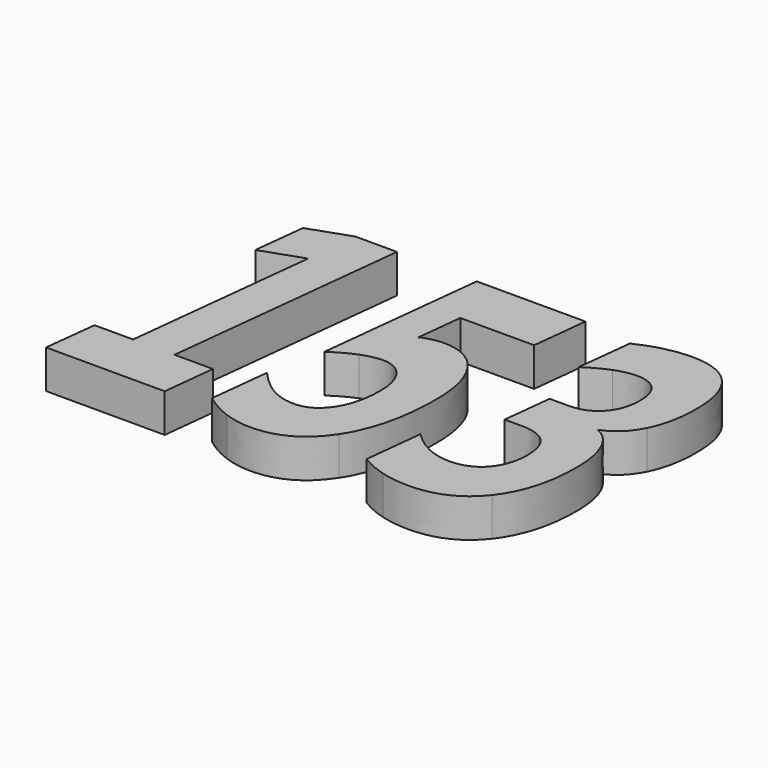
from build123d import *

# Parameters (mm, degrees)
EXTRUDE_PATH819_DEPTH = 10
EXTRUDE_PATH821_DEPTH = 10
EXTRUDE_PATH823_DEPTH = 10


with BuildPart() as obj1:
    # path819 → Extrude_path819 (new body)
    with BuildSketch(Plane(origin=(20.229341, -42.338896, 0), x_dir=(0, -1, 0), z_dir=(0, 0, -1))):
        with BuildLine():
            add(Edge.make_bspline(
                [(24.878189, 14.612545), (24.878189, 4.575645)],
                knots=[0, 0, 13.292356, 13.292356], degree=1))
            add(Edge.make_bspline(
                [(24.878189, 4.575645), (-25.085292, -0.944649)],
                knots=[0, 0, 38.428656, 38.428656], degree=1))
            add(Edge.make_bspline(
                [(-25.085292, -0.944649), (-21.357448, 9.771217)],
                knots=[0, 0, 14.46801, 14.46801], degree=1))
            add(Edge.make_bspline(
                [(-21.357448, 9.771217), (-34.922662, 8.265682)],
                knots=[0, 0, 10.435187, 10.435187], degree=1))
            add(Edge.make_bspline(
                [(-34.922662, 8.265682), (-38.650507, -2.391144)],
                knots=[0, 0, 14.391322, 14.391322], degree=1))
            add(Edge.make_bspline(
                [(-38.650507, -2.391144), (-38.650507, -13.195571)],
                knots=[0, 0, 14.30883, 14.30883], degree=1))
            add(Edge.make_bspline(
                [(-38.650507, -13.195571), (24.878189, -6.199262)],
                knots=[0, 0, 48.85641, 48.85641], degree=1))
            add(Edge.make_bspline(
                [(24.878189, -6.199262), (24.878189, -16.177121)],
                knots=[0, 0, 13.214165, 13.214165], degree=1))
            add(Edge.make_bspline(
                [(24.878189, -16.177121), (38.650507, -14.671586)],
                knots=[0, 0, 10.588729, 10.588729], degree=1))
            add(Edge.make_bspline(
                [(38.650507, -14.671586), (38.650507, 16.177121)],
                knots=[0, 0, 40.854446, 40.854446], degree=1))
            add(Edge.make_bspline(
                [(38.650507, 16.177121), (24.878189, 14.612545)],
                knots=[0, 0, 10.60373, 10.60373], degree=1))
        make_face()
    extrude(amount=-EXTRUDE_PATH819_DEPTH)


with BuildPart() as obj1_1:
    # Extrude_path819 placement: moved
    add(obj1.part.moved(Location((0, 0, -20))))


with BuildPart() as obj2:
    # path821 → Extrude_path821 (new body)
    with BuildSketch(Plane(origin=(63.358493, -43.089643, 0), x_dir=(0, -1, 0), z_dir=(0, 0, -1))):
        with BuildLine():
            add(Edge.make_bspline(
                [(-39.401253, 9.180814), (-39.401253, -19.070113)],
                knots=[0, 0, 37.414079, 37.414079], degree=1))
            add(Edge.make_bspline(
                [(-39.401253, -19.070113), (-24.748751, -17.446492)],
                knots=[0, 0, 11.27094, 11.27094], degree=1))
            add(Edge.make_bspline(
                [(-24.748751, -17.446492), (-24.748751, 1.741704)],
                knots=[0, 0, 25.411863, 25.411863], degree=1))
            add(Edge.make_bspline(
                [(-24.748751, 1.741704), (-12.78858, 3.070115)],
                knots=[0, 0, 9.200746, 9.200746], degree=1))
            add(Edge.make_bspline(
                [(-12.78858, 3.070115), (-13.409888, 1.77122), (-13.720542, 0.383769)],
                knots=[0, 0, 0, 1, 1, 1], degree=2))
            add(Edge.make_bspline(
                [(-13.720542, 0.383769), (-14.082971, -1.033207), (-14.082971, -2.450183)],
                knots=[0, 0, 0, 1, 1, 1], degree=2))
            add(Edge.make_bspline(
                [(-14.082971, -2.450183), (-14.082971, -9.210328), (-8.64653, -13.018451)],
                knots=[0, 0, 0, 1, 1, 1], degree=2))
            add(Edge.make_bspline(
                [(-8.64653, -13.018451), (-3.261864, -16.826565), (6.316627, -16.826565)],
                knots=[0, 0, 0, 1, 1, 1], degree=2))
            add(Edge.make_bspline(
                [(6.316627, -16.826565), (21.538661, -16.826565), (30.495845, -10.95203)],
                knots=[0, 0, 0, 1, 1, 1], degree=2))
            add(Edge.make_bspline(
                [(30.495845, -10.95203), (39.401253, -5.077489), (39.401253, 4.98893)],
                knots=[0, 0, 0, 1, 1, 1], degree=2))
            add(Edge.make_bspline(
                [(39.401253, 4.98893), (39.401253, 8.678969), (38.106862, 12.162364)],
                knots=[0, 0, 0, 1, 1, 1], degree=2))
            add(Edge.make_bspline(
                [(38.106862, 12.162364), (36.864247, 15.645758), (34.275466, 19.070113)],
                knots=[0, 0, 0, 1, 1, 1], degree=2))
            add(Edge.make_bspline(
                [(34.275466, 19.070113), (18.587451, 17.328415)],
                knots=[0, 0, 12.068316, 12.068316], degree=1))
            add(Edge.make_bspline(
                [(18.587451, 17.328415), (22.315295, 14.051662), (24.075667, 10.981552)],
                knots=[0, 0, 0, 1, 1, 1], degree=2))
            add(Edge.make_bspline(
                [(24.075667, 10.981552), (25.836039, 7.881922), (25.836039, 4.693729)],
                knots=[0, 0, 0, 1, 1, 1], degree=2))
            add(Edge.make_bspline(
                [(25.836039, 4.693729), (25.836039, 0.029527), (21.590437, -2.774901)],
                knots=[0, 0, 0, 1, 1, 1], degree=2))
            add(Edge.make_bspline(
                [(21.590437, -2.774901), (17.29306, -5.579336), (10.355126, -5.579336)],
                knots=[0, 0, 0, 1, 1, 1], degree=2))
            add(Edge.make_bspline(
                [(10.355126, -5.579336), (5.384665, -5.579336), (2.48523, -3.453869)],
                knots=[0, 0, 0, 1, 1, 1], degree=2))
            add(Edge.make_bspline(
                [(2.48523, -3.453869), (-0.46598, -1.328409), (-0.46598, 2.332107)],
                knots=[0, 0, 0, 1, 1, 1], degree=2))
            add(Edge.make_bspline(
                [(-0.46598, 2.332107), (-0.46598, 4.811809), (0.673083, 7.704801)],
                knots=[0, 0, 0, 1, 1, 1], degree=2))
            add(Edge.make_bspline(
                [(0.673083, 7.704801), (1.760372, 10.568268), (4.090275, 13.992622)],
                knots=[0, 0, 0, 1, 1, 1], degree=2))
            add(Edge.make_bspline(
                [(4.090275, 13.992622), (-39.401253, 9.180814)],
                knots=[0, 0, 33.452509, 33.452509], degree=1))
        make_face()
    extrude(amount=-EXTRUDE_PATH821_DEPTH)


with BuildPart() as obj2_1:
    # Extrude_path821 placement: moved
    add(obj2.part.moved(Location((0, 0, -20))))


with BuildPart() as obj3:
    # path823 → Extrude_path823 (new body)
    with BuildSketch(Plane(origin=(104.790227, -42.390671, 0), x_dir=(0, -1, 0), z_dir=(0, 0, -1))):
        with BuildLine():
            add(Edge.make_bspline(
                [(-3.08065, -9.284129), (-1.734484, -12.61992), (2.355791, -14.479702)],
                knots=[0, 0, 0, 1, 1, 1], degree=2))
            add(Edge.make_bspline(
                [(2.355791, -14.479702), (6.446066, -16.339476), (12.400263, -16.339476)],
                knots=[0, 0, 0, 1, 1, 1], degree=2))
            add(Edge.make_bspline(
                [(12.400263, -16.339476), (25.240619, -16.339476), (32.69631, -10.523984)],
                knots=[0, 0, 0, 1, 1, 1], degree=2))
            add(Edge.make_bspline(
                [(32.69631, -10.523984), (40.100224, -4.738008), (40.100224, 5.416976)],
                knots=[0, 0, 0, 1, 1, 1], degree=2))
            add(Edge.make_bspline(
                [(40.100224, 5.416976), (40.100224, 9.254613), (39.116487, 12.738008)],
                knots=[0, 0, 0, 1, 1, 1], degree=2))
            add(Edge.make_bspline(
                [(39.116487, 12.738008), (38.184526, 16.191887), (36.268828, 19.261992)],
                knots=[0, 0, 0, 1, 1, 1], degree=2))
            add(Edge.make_bspline(
                [(36.268828, 19.261992), (20.891467, 17.579339)],
                knots=[0, 0, 11.823167, 11.823167], degree=1))
            add(Edge.make_bspline(
                [(20.891467, 17.579339), (23.583799, 14.952032), (25.085292, 11.852403)],
                knots=[0, 0, 0, 1, 1, 1], degree=2))
            add(Edge.make_bspline(
                [(25.085292, 11.852403), (26.535011, 8.752766), (26.535011, 5.653137)],
                knots=[0, 0, 0, 1, 1, 1], degree=2))
            add(Edge.make_bspline(
                [(26.535011, 5.653137), (26.535011, 0.664209), (23.273145, -2.228782)],
                knots=[0, 0, 0, 1, 1, 1], degree=2))
            add(Edge.make_bspline(
                [(23.273145, -2.228782), (19.959505, -5.15129), (14.419512, -5.15129)],
                knots=[0, 0, 0, 1, 1, 1], degree=2))
            add(Edge.make_bspline(
                [(14.419512, -5.15129), (9.811482, -5.15129), (7.533355, -2.937266)],
                knots=[0, 0, 0, 1, 1, 1], degree=2))
            add(Edge.make_bspline(
                [(7.533355, -2.937266), (5.203451, -0.723242), (5.203451, 3.734322)],
                knots=[0, 0, 0, 1, 1, 1], degree=2))
            add(Edge.make_bspline(
                [(5.203451, 3.734322), (5.203451, 8.250927)],
                knots=[0, 0, 5.98156, 5.98156], degree=1))
            add(Edge.make_bspline(
                [(5.203451, 8.250927), (-7.636905, 6.804428)],
                knots=[0, 0, 9.883039, 9.883039], degree=1))
            add(Edge.make_bspline(
                [(-7.636905, 6.804428), (-7.636905, 2.022145)],
                knots=[0, 0, 6.33341, 6.33341], degree=1))
            add(Edge.make_bspline(
                [(-7.636905, 2.022145), (-7.636905, -2.612541), (-10.588116, -5.298888)],
                knots=[0, 0, 0, 1, 1, 1], degree=2))
            add(Edge.make_bspline(
                [(-10.588116, -5.298888), (-13.539327, -8.014758), (-18.561563, -8.014758)],
                knots=[0, 0, 0, 1, 1, 1], degree=2))
            add(Edge.make_bspline(
                [(-18.561563, -8.014758), (-22.49651, -8.014758), (-24.567536, -6.12546)],
                knots=[0, 0, 0, 1, 1, 1], degree=2))
            add(Edge.make_bspline(
                [(-24.567536, -6.12546), (-26.638561, -4.265678), (-26.638561, -0.693726)],
                knots=[0, 0, 0, 1, 1, 1], degree=2))
            add(Edge.make_bspline(
                [(-26.638561, -0.693726), (-26.638561, 1.8155), (-25.499497, 4.767532)],
                knots=[0, 0, 0, 1, 1, 1], degree=2))
            add(Edge.make_bspline(
                [(-25.499497, 4.767532), (-24.360433, 7.719557), (-22.185857, 10.90775)],
                knots=[0, 0, 0, 1, 1, 1], degree=2))
            add(Edge.make_bspline(
                [(-22.185857, 10.90775), (-36.786583, 9.284137)],
                knots=[0, 0, 11.232564, 11.232564], degree=1))
            add(Edge.make_bspline(
                [(-36.786583, 9.284137), (-38.443403, 5.800742), (-39.271814, 2.435427)],
                knots=[0, 0, 0, 1, 1, 1], degree=2))
            add(Edge.make_bspline(
                [(-39.271814, 2.435427), (-40.100224, -0.959404), (-40.100224, -4.265678)],
                knots=[0, 0, 0, 1, 1, 1], degree=2))
            add(Edge.make_bspline(
                [(-40.100224, -4.265678), (-40.100224, -11.734315), (-35.751071, -15.483388)],
                knots=[0, 0, 0, 1, 1, 1], degree=2))
            add(Edge.make_bspline(
                [(-35.751071, -15.483388), (-31.401918, -19.261992), (-22.807164, -19.261992)],
                knots=[0, 0, 0, 1, 1, 1], degree=2))
            add(Edge.make_bspline(
                [(-22.807164, -19.261992), (-15.092596, -19.261992), (-9.915032, -16.634686)],
                knots=[0, 0, 0, 1, 1, 1], degree=2))
            add(Edge.make_bspline(
                [(-9.915032, -16.634686), (-4.789245, -14.036896), (-3.08065, -9.284129)],
                knots=[0, 0, 0, 1, 1, 1], degree=2))
        make_face()
    extrude(amount=-EXTRUDE_PATH823_DEPTH)


with BuildPart() as obj3_1:
    # Extrude_path823 placement: moved
    add(obj3.part.moved(Location((0, 0, -20))))


solid = Compound([obj1_1.part, obj2_1.part, obj3_1.part])
